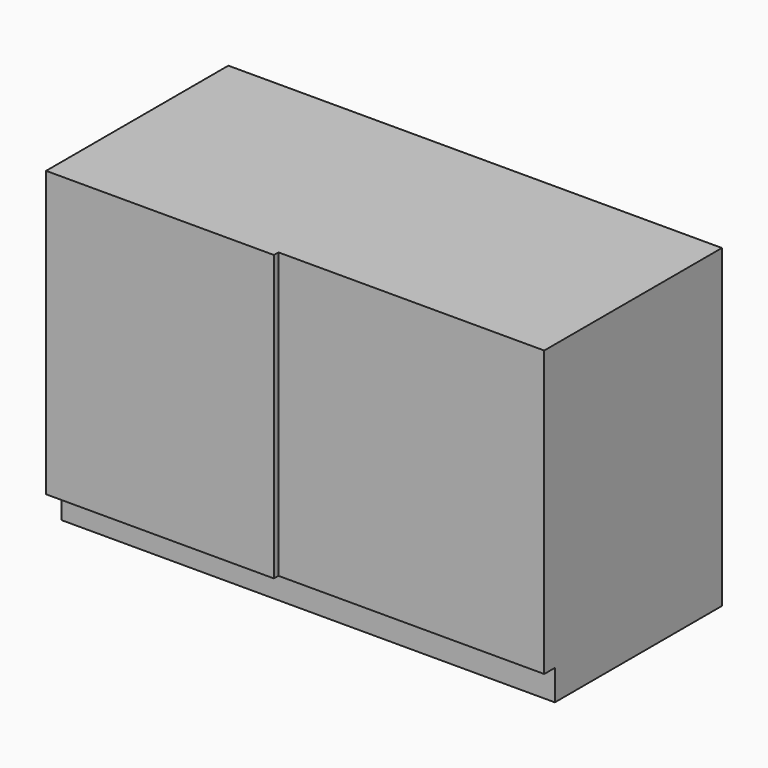
from build123d import *

# Parameters (mm, degrees)
F1_DEPTH = 1300
F2_W     = 700
F2_H     = 15
F3_DEPTH = 830.001


with BuildPart() as f1:
    # F0 (on Right) → F1 (new body)
    with BuildSketch(Plane.YZ):
        Polygon((-550, 0), (0, 0), (0, 830), (-600, 830), (-600, 80), (-550, 80), align=None)
    extrude(amount=F1_DEPTH)

    # F2 (on face) → F3 (cut, through all)
    with BuildSketch(Plane.XY.offset(830)):
        with Locations((950, -592.5)):
            Rectangle(F2_W, F2_H)
    extrude(amount=-F3_DEPTH, mode=Mode.SUBTRACT)


solid = f1.part
